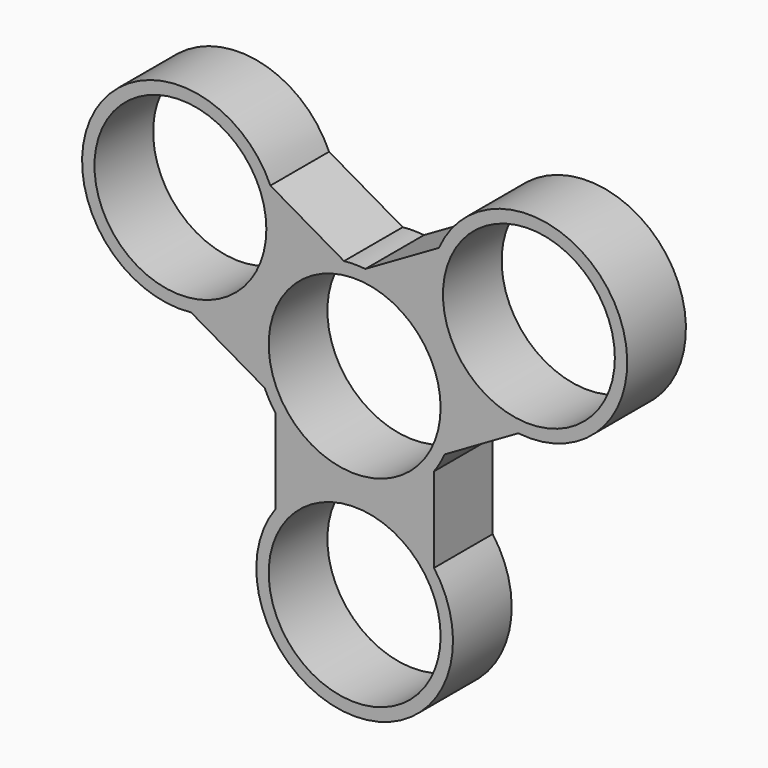
from build123d import *

# Parameters (mm, degrees)
F0_R     = 11.0998
F1_DEPTH = 9.4742


with BuildPart() as f1:
    # F0 (on Front) → F1 (new body)
    with BuildSketch(Plane.XZ):
        with BuildLine():
            Line((10.247213, -18.481892), (10.247213, -7.502308))
            ThreePointArc((10.247213, -7.502308), (10.998523, -6.35), (11.620796, -5.123193))
            Line((11.620796, -5.123193), (21.129395, 0.366599))
            ThreePointArc((21.129395, 0.366599), (33.5015, 19.3421), (10.882182, 18.115293))
            Line((10.882182, 18.115293), (1.373583, 12.625501))
            ThreePointArc((1.373583, 12.625501), (0, 12.7), (-1.373583, 12.625501))
            Line((-1.373583, 12.625501), (-10.882182, 18.115293))
            ThreePointArc((-10.882182, 18.115293), (-33.5015, 19.3421), (-21.129395, 0.366599))
            Line((-21.129395, 0.366599), (-11.620796, -5.123193))
            ThreePointArc((-11.620796, -5.123193), (-10.998523, -6.35), (-10.247213, -7.502308))
            Line((-10.247213, -7.502308), (-10.247213, -18.481892))
            ThreePointArc((-10.247213, -18.481892), (0, -38.6842), (10.247213, -18.481892))
        make_face()
        with Locations((0, -25.9842)):
            Circle(F0_R, mode=Mode.SUBTRACT)
        Circle(F0_R, mode=Mode.SUBTRACT)
        with Locations((-22.502977, 12.9921)):
            Circle(F0_R, mode=Mode.SUBTRACT)
        with Locations((22.502977, 12.9921)):
            Circle(F0_R, mode=Mode.SUBTRACT)
    extrude(amount=F1_DEPTH)


solid = f1.part
